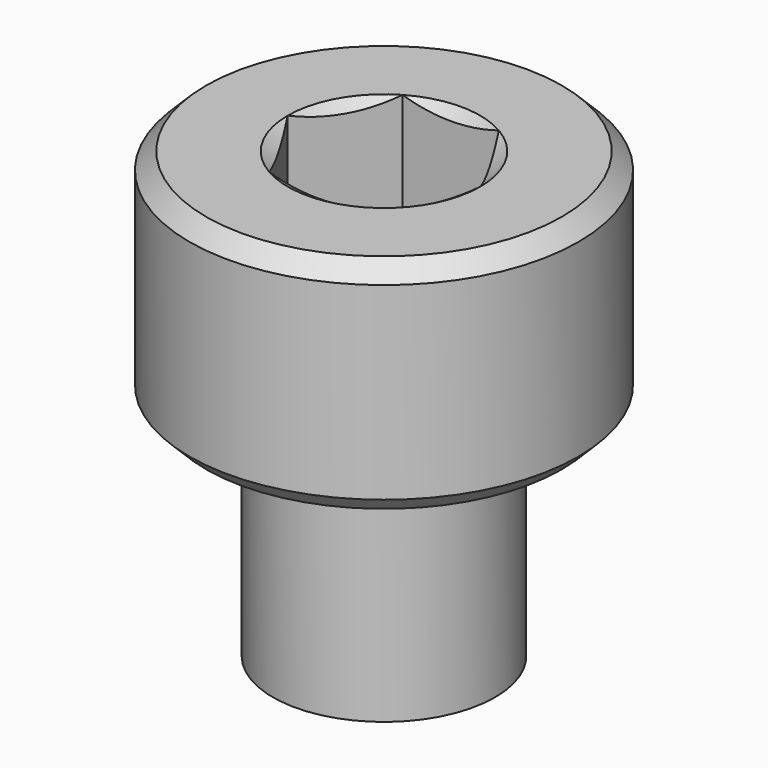
from build123d import *

# Parameters (mm, degrees)
F3_DEPTH = 2.5
F6_SIZE  = 0.3


with BuildPart() as f1:
    # F0 (on Front) → F1 (revolve)
    with BuildSketch(Plane.XZ):
        Polygon((3.5, 4), (0, 4), (0, -4), (2, -4), (2, 0), (3.5, 0), align=None)
    revolve(axis=Axis((0, 0, 0), (0, 0, -1)))

    # F2 (on face) → F3 (cut)
    with BuildSketch(Plane.XY.offset(4)):
        Polygon((1.732051, 0), (0.866025, 1.5), (-0.866025, 1.5), (-1.732051, 0), (-0.866025, -1.5), (0.866025, -1.5), align=None)
    extrude(amount=-F3_DEPTH, mode=Mode.SUBTRACT)

    # F4 (on Front) → F5 (revolve, cut)
    with BuildSketch(Plane.XZ):
        with BuildLine():
            Line((0, 3.5), (0, 10))
            ThreePointArc((0, 10), (-3.25, 6.75), (0, 3.5))
        make_face()
    revolve(axis=Axis((0, 0, 3.375), (0, 0, -1)), mode=Mode.SUBTRACT)

    # F6
    f6_edges = [f1.edges().sort_by_distance(p)[0] for p in [
        (-3.5, 0, 4),
        (-3.5, 0, 0),
    ]]
    chamfer(f6_edges, length=F6_SIZE)


solid = f1.part
